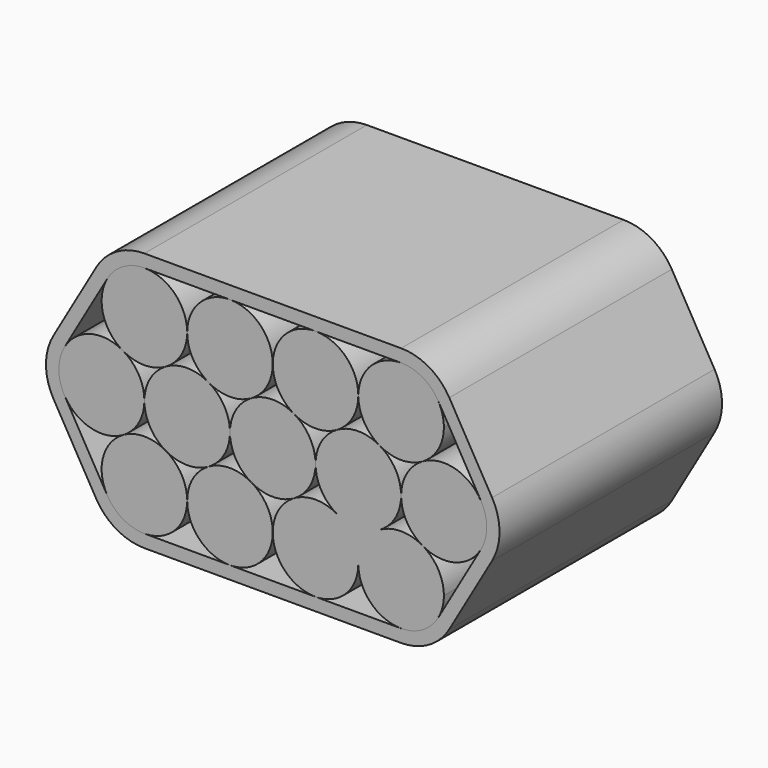
from build123d import *

# Parameters (mm, degrees)
F1_DEPTH = 65
F2_DEPTH = 65


with BuildPart() as f1:
    # F0 (on Front) → F1 (new body)
    with BuildSketch(Plane.XZ):
        with BuildLine():
            ThreePointArc((10.580449191, 62.1779500274), (11.9201956106, 57.1779492352), (15.5804507755, 53.5176950748))
            ThreePointArc((15.5804507755, 53.5176950748), (20.580451044, 52.1779500274), (25.580450816, 53.5176969278))
            ThreePointArc((25.580450816, 53.5176969278), (29.2407036979, 57.17795084), (30.580449191, 62.1779500274))
            ThreePointArc((30.580449191, 62.1779500274), (30.2397074539, 64.7661404784), (29.2407032288, 67.1779500274))
            ThreePointArc((29.2407032288, 67.1779500274), (25.5803943425, 70.8382357318), (20.580322524, 72.1779500266))
            ThreePointArc((20.580322524, 72.1779500266), (13.5093365957, 69.2489730556), (10.580449191, 62.1779500274))
        make_face()
    extrude(amount=F1_DEPTH)


with BuildPart() as f1b:
    # F0 (on Front) → F1, piece 2 (new body)
    with BuildSketch(Plane.XZ):
        with BuildLine():
            ThreePointArc((25.580450816, 53.5176969278), (21.9201956223, 49.8574427643), (20.580449191, 44.8574419517))
            ThreePointArc((20.580449191, 44.8574419517), (21.9201950608, 39.8574421117), (25.580448871, 36.1971880986))
            ThreePointArc((25.580448871, 36.1971880986), (33.1686394636, 35.198183641), (39.2407032288, 39.8574419517))
            ThreePointArc((39.2407032288, 39.8574419517), (40.2397074539, 42.2692515007), (40.580449191, 44.8574419517))
            ThreePointArc((40.580449191, 44.8574419517), (40.2397074539, 47.4456324028), (39.2407032288, 49.8574419517))
            ThreePointArc((39.2407032288, 49.8574419517), (33.1686405483, 54.5166999718), (25.580450816, 53.5176969278))
        make_face()
    extrude(amount=F1_DEPTH)


with BuildPart() as f1c:
    # F0 (on Front) → F1, piece 3 (new body)
    with BuildSketch(Plane.XZ):
        with BuildLine():
            ThreePointArc((25.580448871, 36.1971880986), (20.5804488945, 37.536933876), (15.5804489975, 36.1971878022))
            ThreePointArc((15.5804489975, 36.1971878022), (11.9201950973, 32.5369337793), (10.580449191, 27.536933876))
            ThreePointArc((10.580449191, 27.536933876), (13.5093365957, 20.4659108479), (20.580322524, 17.5369338768))
            ThreePointArc((20.580322524, 17.5369338768), (25.5803943425, 18.8766481716), (29.2407032288, 22.536933876))
            ThreePointArc((29.2407032288, 22.536933876), (30.2397074539, 24.948743425), (30.580449191, 27.536933876))
            ThreePointArc((30.580449191, 27.536933876), (29.2407031365, 32.536934036), (25.580448871, 36.1971880986))
        make_face()
        with BuildLine():
            ThreePointArc((5.5804475737, 53.5176950558), (1.9201946863, 49.8574411431), (0.580449191, 44.8574419517))
            ThreePointArc((0.580449191, 44.8574419517), (1.9201952644, 39.857441759), (5.5804495765, 36.1971876913))
            ThreePointArc((5.5804495765, 36.1971876913), (10.5804493018, 34.8574419517), (15.5804489975, 36.1971878022))
            ThreePointArc((15.5804489975, 36.1971878022), (19.240703173, 39.857441855), (20.580449191, 44.8574419517))
            ThreePointArc((20.580449191, 44.8574419517), (19.2407036862, 49.8574411595), (15.5804507755, 53.5176950748))
            ThreePointArc((15.5804507755, 53.5176950748), (10.5804491721, 54.8574419517), (5.5804475737, 53.5176950558))
        make_face()
        with BuildLine():
            ThreePointArc((15.5804489975, 36.1971878022), (10.5804493018, 34.8574419517), (5.5804495765, 36.1971876913))
            ThreePointArc((5.5804495765, 36.1971876913), (9.2407033401, 32.5369336833), (10.580449191, 27.536933876))
            ThreePointArc((10.580449191, 27.536933876), (11.9201950973, 32.5369337793), (15.5804489975, 36.1971878022))
        make_face()
        with BuildLine():
            ThreePointArc((5.5804495765, 36.1971876913), (0.580449328, 37.536933876), (-4.4195509572, 36.1971878283))
            ThreePointArc((-4.4195509572, 36.1971878283), (-8.0798048896, 32.536933802), (-9.419550809, 27.536933876))
            ThreePointArc((-9.419550809, 27.536933876), (-6.5157846053, 20.491121935), (0.5091423726, 17.5371881124))
            Line((0.5091423726, 17.5371881124), (0.6515026818, 17.5371863092))
            ThreePointArc((0.6515026818, 17.5371863092), (7.6765937396, 20.4910320498), (10.580449191, 27.536933876))
            ThreePointArc((10.580449191, 27.536933876), (9.2407033401, 32.5369336833), (5.5804495765, 36.1971876913))
        make_face()
    extrude(amount=F1_DEPTH)


with BuildPart() as f1d:
    # F0 (on Front) → F1, piece 4 (new body)
    with BuildSketch(Plane.XZ):
        with BuildLine():
            ThreePointArc((-9.419550809, 62.1779500274), (-8.0798043884, 57.1779492333), (-4.4195492208, 53.5176950726))
            ThreePointArc((-4.4195492208, 53.5176950726), (0.5804491742, 52.1779500274), (5.5804475737, 53.5176950558))
            ThreePointArc((5.5804475737, 53.5176950558), (9.240702762, 57.1779492188), (10.580449191, 62.1779500274))
            ThreePointArc((10.580449191, 62.1779500274), (7.6765937395, 69.2238518537), (0.6515026818, 72.1776975943))
            Line((0.6515026818, 72.1776975943), (0.5091423727, 72.1776957911))
            ThreePointArc((0.5091423727, 72.1776957911), (-6.5157846053, 69.2237619685), (-9.419550809, 62.1779500274))
        make_face()
    extrude(amount=F1_DEPTH)


with BuildPart() as f1e:
    # F0 (on Front) → F1, piece 5 (new body)
    with BuildSketch(Plane.XZ):
        with BuildLine():
            ThreePointArc((-14.4195524329, 53.517695052), (-18.0798053156, 49.8574411398), (-19.419550809, 44.8574419517))
            ThreePointArc((-19.419550809, 44.8574419517), (-18.0798047604, 39.8574418019), (-14.4195505094, 36.1971877409))
            ThreePointArc((-14.4195505094, 36.1971877409), (-9.4195507216, 34.8574419517), (-4.4195509572, 36.1971878283))
            ThreePointArc((-4.4195509572, 36.1971878283), (-0.7592968139, 39.8574418776), (0.580449191, 44.8574419517))
            ThreePointArc((0.580449191, 44.8574419517), (-0.7592963127, 49.8574411576), (-4.4195492208, 53.5176950726))
            ThreePointArc((-4.4195492208, 53.5176950726), (-9.4195508297, 54.8574419517), (-14.4195524329, 53.517695052))
        make_face()
    extrude(amount=F1_DEPTH)


with BuildPart() as f1f:
    # F0 (on Front) → F1, piece 6 (new body)
    with BuildSketch(Plane.XZ):
        with BuildLine():
            ThreePointArc((-29.419550809, 62.1779500274), (-28.0798043872, 57.1779492313), (-24.4195492167, 53.5176950703))
            ThreePointArc((-24.4195492167, 53.5176950703), (-19.4195508273, 52.1779500274), (-14.4195524329, 53.517695052))
            ThreePointArc((-14.4195524329, 53.517695052), (-10.75929724, 57.1779492155), (-9.419550809, 62.1779500274))
            ThreePointArc((-9.419550809, 62.1779500274), (-12.3130268198, 69.2133829772), (-19.3190141672, 72.1774446338))
            Line((-19.3190141672, 72.1774446338), (-19.520340772, 72.1774420837))
            ThreePointArc((-19.520340772, 72.1774420837), (-26.5261639133, 69.2132929604), (-29.419550809, 62.1779500274))
        make_face()
    extrude(amount=F1_DEPTH)


with BuildPart() as f1g:
    # F0 (on Front) → F1, piece 7 (new body)
    with BuildSketch(Plane.XZ):
        with BuildLine():
            ThreePointArc((-48.0798048469, 67.1779500274), (-49.0788093117, 59.5897604714), (-44.4195524138, 53.5176969161))
            ThreePointArc((-44.4195524138, 53.5176969161), (-39.419550809, 52.1779500274), (-34.4195492042, 53.5176969161))
            ThreePointArc((-34.4195492042, 53.5176969161), (-30.7592963079, 57.1779508298), (-29.419550809, 62.1779500274))
            ThreePointArc((-29.419550809, 62.1779500274), (-32.3050728151, 69.2053395053), (-39.2963913838, 72.1771915865))
            ThreePointArc((-39.2963913838, 72.1771915865), (-44.3661253963, 70.8688302965), (-48.0798048469, 67.1779500274))
        make_face()
    extrude(amount=F1_DEPTH)


with BuildPart() as f1h:
    # F0 (on Front) → F1, piece 8 (new body)
    with BuildSketch(Plane.XZ):
        with BuildLine():
            ThreePointArc((-34.4195492042, 53.5176969161), (-38.0798043836, 49.8574427541), (-39.419550809, 44.8574419517))
            ThreePointArc((-39.419550809, 44.8574419517), (-38.0798049203, 39.8574420789), (-34.4195510633, 36.1971880607))
            ThreePointArc((-34.4195510633, 36.1971880607), (-29.4195510999, 34.8574419517), (-24.4195510585, 36.1971877698))
            ThreePointArc((-24.4195510585, 36.1971877698), (-20.7592968432, 39.857441827), (-19.419550809, 44.8574419517))
            ThreePointArc((-19.419550809, 44.8574419517), (-20.7592963115, 49.8574411556), (-24.4195492167, 53.5176950703))
            ThreePointArc((-24.4195492167, 53.5176950703), (-29.4195489632, 54.8574419517), (-34.4195492042, 53.5176969161))
        make_face()
    extrude(amount=F1_DEPTH)


with BuildPart() as f1i:
    # F0 (on Front) → F1, piece 9 (new body)
    with BuildSketch(Plane.XZ):
        with BuildLine():
            ThreePointArc((-14.4195505094, 36.1971877409), (-19.4195507801, 37.536933876), (-24.4195510585, 36.1971877698))
            ThreePointArc((-24.4195510585, 36.1971877698), (-28.0798049189, 32.5369337513), (-29.419550809, 27.536933876))
            ThreePointArc((-29.419550809, 27.536933876), (-26.5261639134, 20.501590943), (-19.520340772, 17.5374418198))
            Line((-19.520340772, 17.5374418198), (-19.3190141671, 17.5374392696))
            ThreePointArc((-19.3190141671, 17.5374392696), (-12.3130268198, 20.5015009263), (-9.419550809, 27.536933876))
            ThreePointArc((-9.419550809, 27.536933876), (-10.7592966847, 32.5369337262), (-14.4195505094, 36.1971877409))
        make_face()
    extrude(amount=F1_DEPTH)


with BuildPart() as f1j:
    # F0 (on Front) → F1, piece 10 (new body)
    with BuildSketch(Plane.XZ):
        with BuildLine():
            ThreePointArc((-34.4195510633, 36.1971880607), (-39.4195507711, 37.536933876), (-44.4195504891, 36.1971880986))
            ThreePointArc((-44.4195504891, 36.1971880986), (-49.0788090241, 30.1251245055), (-48.0798048469, 22.536933876))
            ThreePointArc((-48.0798048469, 22.536933876), (-44.3661253963, 18.8460536069), (-39.2963913838, 17.537692317))
            ThreePointArc((-39.2963913838, 17.537692317), (-32.3050728151, 20.5095443981), (-29.419550809, 27.536933876))
            ThreePointArc((-29.419550809, 27.536933876), (-30.7592968446, 32.5369340032), (-34.4195510633, 36.1971880607))
        make_face()
    extrude(amount=F1_DEPTH)


with BuildPart() as f1k:
    # F0 (on Front) → F1, piece 11 (new body)
    with BuildSketch(Plane.XZ):
        with BuildLine():
            ThreePointArc((-44.4195524138, 53.5176969161), (-52.007742155, 54.5166999748), (-58.0798048469, 49.8574419517))
            ThreePointArc((-58.0798048469, 49.8574419517), (-59.419550809, 44.8574419517), (-58.0798048469, 39.8574419517))
            ThreePointArc((-58.0798048469, 39.8574419517), (-52.0077410816, 35.198183641), (-44.4195504891, 36.1971880986))
            ThreePointArc((-44.4195504891, 36.1971880986), (-40.7592966788, 39.8574421117), (-39.419550809, 44.8574419517))
            ThreePointArc((-39.419550809, 44.8574419517), (-40.7592972344, 49.8574427541), (-44.4195524138, 53.5176969161))
        make_face()
    extrude(amount=F1_DEPTH)


with BuildPart() as f2:
    # F0 (on Front) → F2 (new body)
    with BuildSketch(Plane.XZ):
        with BuildLine():
            Line((20.5802845239, 75.1779500264), (-39.4201542665, 75.177190019))
            ThreePointArc((-39.4201542665, 75.177190019), (-45.9200609023, 73.4354791023), (-50.6783198487, 68.6771900201))
            Line((-50.6783198487, 68.6771900201), (-60.6778810582, 51.3574419517))
            ThreePointArc((-60.6778810582, 51.3574419517), (-62.419550809, 44.8574419517), (-60.6778810582, 38.3574419517))
            Line((-60.6778810582, 38.3574419517), (-50.6783198487, 21.0376938834))
            ThreePointArc((-50.6783198487, 21.0376938834), (-45.9200609023, 16.2794048012), (-39.4201542665, 14.5376938844))
            Line((-39.4201542665, 14.5376938844), (20.5802845239, 14.5369338771))
            ThreePointArc((20.5802845239, 14.5369338771), (27.0803778879, 16.2785624603), (31.8387794402, 21.036933876))
            Line((31.8387794402, 21.036933876), (41.8387794402, 38.3574419517))
            ThreePointArc((41.8387794402, 38.3574419517), (43.580449191, 44.8574419517), (41.8387794402, 51.3574419517))
            Line((41.8387794402, 51.3574419517), (31.8387794402, 68.6779500274))
            ThreePointArc((31.8387794402, 68.6779500274), (27.0803778879, 73.4363214432), (20.5802845239, 75.1779500264))
        make_face()
        with BuildLine():
            ThreePointArc((-58.0798048469, 39.8574419517), (-59.419550809, 44.8574419517), (-58.0798048469, 49.8574419517))
            Line((-58.0798048469, 49.8574419517), (-48.0798048469, 67.1779500274))
            ThreePointArc((-48.0798048469, 67.1779500274), (-44.3661253963, 70.8688302965), (-39.2963913838, 72.1771915865))
            Line((-39.2963913838, 72.1771915865), (-19.520340772, 72.1774420837))
            ThreePointArc((-19.520340772, 72.1774420837), (-19.419677476, 72.1779500266), (-19.3190141672, 72.1774446338))
            Line((-19.3190141672, 72.1774446338), (0.5091423727, 72.1776957911))
            ThreePointArc((0.5091423727, 72.1776957911), (0.580322524, 72.1779500266), (0.6515026818, 72.1776975943))
            Line((0.6515026818, 72.1776975943), (20.580322524, 72.1779500266))
            ThreePointArc((20.580322524, 72.1779500266), (25.5803943425, 70.8382357318), (29.2407032288, 67.1779500274))
            Line((29.2407032288, 67.1779500274), (39.2407032288, 49.8574419517))
            ThreePointArc((39.2407032288, 49.8574419517), (40.2397074539, 47.4456324028), (40.580449191, 44.8574419517))
            ThreePointArc((40.580449191, 44.8574419517), (40.2397074539, 42.2692515007), (39.2407032288, 39.8574419517))
            Line((39.2407032288, 39.8574419517), (29.2407032288, 22.536933876))
            ThreePointArc((29.2407032288, 22.536933876), (25.5803943425, 18.8766481716), (20.580322524, 17.5369338768))
            Line((20.580322524, 17.5369338768), (0.6515026818, 17.5371863092))
            ThreePointArc((0.6515026818, 17.5371863092), (0.580322524, 17.5369338768), (0.5091423726, 17.5371881124))
            Line((0.5091423726, 17.5371881124), (-19.3190141671, 17.5374392696))
            ThreePointArc((-19.3190141671, 17.5374392696), (-19.419677476, 17.5369338768), (-19.520340772, 17.5374418198))
            Line((-19.520340772, 17.5374418198), (-39.2963913838, 17.537692317))
            ThreePointArc((-39.2963913838, 17.537692317), (-44.3661253963, 18.8460536069), (-48.0798048469, 22.536933876))
            Line((-48.0798048469, 22.536933876), (-58.0798048469, 39.8574419517))
        make_face(mode=Mode.SUBTRACT)
    extrude(amount=F2_DEPTH)


solid = Compound([f1.part, f1b.part, f1c.part, f1d.part, f1e.part, f1f.part, f1g.part, f1h.part, f1i.part, f1j.part, f1k.part, f2.part])
